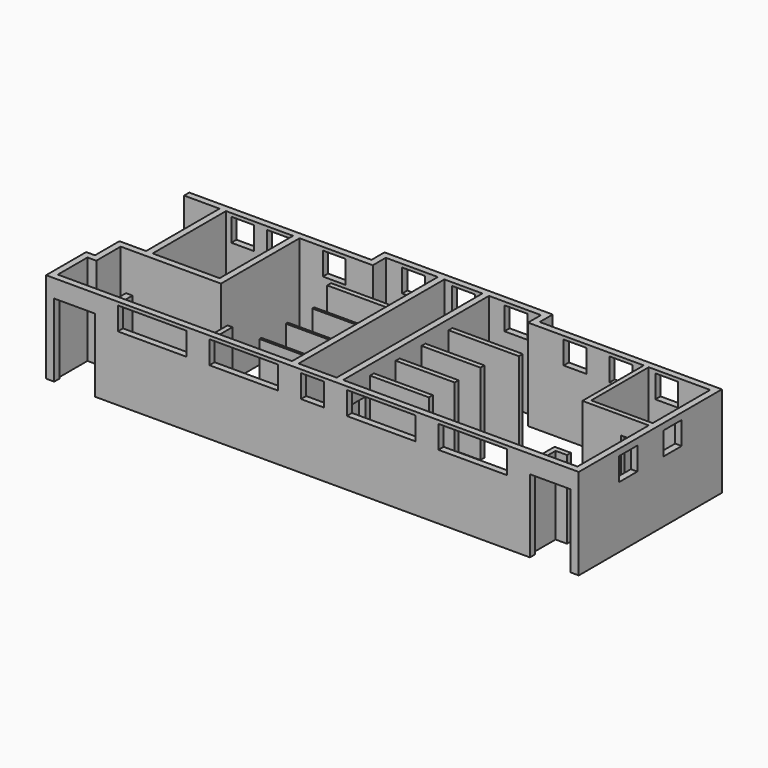
from build123d import *

# Parameters (mm, degrees)
F1_DEPTH  = 2800
F2_W      = 1250
F2_H      = 2250
F3_DEPTH  = 200
F4_W      = 1250
F4_H      = 2250
F5_DEPTH  = 200
F7_DEPTH  = 2800
F8_W      = 200
F8_H      = 5600
F10_DEPTH = 2800
F9_W      = 200
F9_H      = 5600
F11_DEPTH = 2800
F14_DEPTH = 2500
F16_DEPTH = 2800
F17_W     = 2111
F17_H     = 704
F17_W_2   = 704
F18_DEPTH = 200
F19_DEPTH = 2500
F20_W     = 704
F20_H     = 704
F21_DEPTH = 200
F22_W     = 704
F22_H     = 704
F23_DEPTH = 200
F24_W     = 704
F24_H     = 704
F25_DEPTH = 200
F28_W     = 760
F28_H     = 2250
F29_DEPTH = 150
F30_W     = 705
F30_H     = 705
F31_DEPTH = 200
F32_W     = 1810
F32_H     = 150
F33_DEPTH = 2500
F35_DEPTH = 200
F36_W     = 200
F36_H     = 870
F37_DEPTH = 2400
F38_W     = 150
F38_H     = 1085
F39_DEPTH = 2400
F40_W     = 1810
F40_H     = 75
F41_DEPTH = 2400
F42_W     = 1810
F42_H     = 75
F43_DEPTH = 2400
F45_DEPTH = 2400
F46_W     = 1090
F46_H     = 200
F47_DEPTH = 2800


with BuildPart() as f1:
    # F0 (on Top) → F1 (new body)
    with BuildSketch(Plane.XY):
        Polygon((0, 200), (0, 0), (16370, 0), (16370, 5500), (10770, 5500), (10770, 6000), (5600, 6000), (5600, 5500), (1090, 5500), (1090, 5300), (1090, 2480), (270, 2480), (270, 1540), (0, 1540), align=None)
        Polygon((1290, 5300), (5800, 5300), (5800, 5800), (10570, 5800), (10570, 5300), (16170, 5300), (16170, 200), (200, 200), (200, 1340), (470, 1340), (470, 2280), (936.407268, 2280), (1290, 2280), align=None, mode=Mode.SUBTRACT)
    extrude(amount=F1_DEPTH)

    # F2 (on face) → F3 (cut)
    with BuildSketch(Plane.XZ):
        with Locations((875, 1125)):
            Rectangle(F2_W, F2_H)
    extrude(amount=-F3_DEPTH, mode=Mode.SUBTRACT)

    # F4 (on face) → F5 (cut)
    with BuildSketch(Plane.XZ):
        with Locations((15495, 1125)):
            Rectangle(F4_W, F4_H)
    extrude(amount=-F5_DEPTH, mode=Mode.SUBTRACT)

    # F6 (on Top) → F7 (join)
    with BuildSketch(Plane.XY):
        Polygon((1290, 2480), (1290, 2280), (3550, 2280), (3550, 5300), (3350, 5300), (3350, 2480), align=None)
    extrude(amount=F7_DEPTH)

    # F8 (on Top) → F10 (join)
    with BuildSketch(Plane.XY):
        with Locations((7500, 3000)):
            Rectangle(F8_W, F8_H)
    extrude(amount=F10_DEPTH)

    # F9 (on Top) → F11 (join)
    with BuildSketch(Plane.XY):
        with Locations((8870, 3000)):
            Rectangle(F9_W, F9_H)
    extrude(amount=F11_DEPTH)

    # F13 (on Top) → F14 (join)
    with BuildSketch(Plane.XY):
        Polygon((7600, 5800), (7400, 5800), (7400, 4400), (5240, 4400), (5240, 4250), (7600, 4250), align=None)
    extrude(amount=F14_DEPTH)

    # F15 (on Top) → F16 (join)
    with BuildSketch(Plane.XY):
        Polygon((14280, 5300), (14130, 5300), (14130, 2940), (16170, 2940), (16170, 3090), (14280, 3090), align=None)
    extrude(amount=F16_DEPTH)

    # F17 (on face) → F18 (cut)
    with BuildSketch(Plane.XZ):
        with Locations((3259.5, 2348)):
            Rectangle(F17_W, F17_H)
        with Locations((6073.5, 2348)):
            Rectangle(F17_W, F17_H)
        with Locations((8185, 2348)):
            Rectangle(F17_W_2, F17_H)
        with Locations((10296.5, 2348)):
            Rectangle(F17_W, F17_H)
        with Locations((13111.5, 2348)):
            Rectangle(F17_W, F17_H)
    extrude(amount=-F18_DEPTH, mode=Mode.SUBTRACT)

    # F12 (on Top) → F19 (join)
    with BuildSketch(Plane.XY):
        Polygon((8969.008636, 4400), (8969.008636, 5800), (8769.008636, 5800), (8769.008636, 4250), (11129.008636, 4250), (11129.008636, 4400), align=None)
    extrude(amount=F19_DEPTH)

    # F20 (on face) → F21 (cut)
    with BuildSketch(Plane(origin=(0, 5500, 0), x_dir=(-1, 0, 0), z_dir=(0, 1, 0))):
        with Locations((-14835, 2348)):
            Rectangle(F20_W, F20_H)
        with Locations((-13427, 2348)):
            Rectangle(F20_W, F20_H)
        with Locations((-12019, 2348)):
            Rectangle(F20_W, F20_H)
    extrude(amount=-F21_DEPTH, mode=Mode.SUBTRACT)

    # F22 (on face) → F23 (cut)
    with BuildSketch(Plane(origin=(0, 6000, 0), x_dir=(-1, 0, 0), z_dir=(0, 1, 0))):
        with Locations((-9798, 2348)):
            Rectangle(F22_W, F22_H)
        with Locations((-8184, 2348)):
            Rectangle(F22_W, F22_H)
        with Locations((-6653, 2348)):
            Rectangle(F22_W, F22_H)
    extrude(amount=-F23_DEPTH, mode=Mode.SUBTRACT)

    # F24 (on face) → F25 (cut)
    with BuildSketch(Plane(origin=(0, 5500, 0), x_dir=(-1, 0, 0), z_dir=(0, 1, 0))):
        with Locations((-4617, 2348)):
            Rectangle(F24_W, F24_H)
        with Locations((-2896, 2348)):
            Rectangle(F24_W, F24_H)
        with Locations((-1804, 2348)):
            Rectangle(F24_W, F24_H)
    extrude(amount=-F25_DEPTH, mode=Mode.SUBTRACT)

    # F28 (on face) → F29 (cut)
    with BuildSketch(Plane.XZ.offset(-2940)):
        with Locations((15690, 1125)):
            Rectangle(F28_W, F28_H)
    extrude(amount=-F29_DEPTH, mode=Mode.SUBTRACT)

    # F30 (on face) → F31 (cut)
    with BuildSketch(Plane.YZ.offset(16370)):
        with Locations((1897.5, 2247.5)):
            Rectangle(F30_W, F30_H)
        with Locations((3602.5, 2247.5)):
            Rectangle(F30_W, F30_H)
    extrude(amount=-F31_DEPTH, mode=Mode.SUBTRACT)

    # F32 (on Top) → F33 (join)
    with BuildSketch(Plane.XY):
        Polygon((8970, 3360), (8970, 5800), (8969.008636, 5800), (8770, 5800), (8770, 1230), (8970, 1230), (8970, 1380), (8970, 2220), (8970, 2370), (8970, 3210), align=None)
        with Locations((9875, 3285)):
            Rectangle(F32_W, F32_H)
        with Locations((9875, 2295)):
            Rectangle(F32_W, F32_H)
        with Locations((9875, 1305)):
            Rectangle(F32_W, F32_H)
    extrude(amount=F33_DEPTH)

    # F34 (on face) → F35 (cut)
    with BuildSketch(Plane.YZ.offset(8970)):
        Polygon((300, 2000), (300, 0), (962, 0), (1062, 0), (1062, 2000), align=None)
    extrude(amount=-F35_DEPTH, mode=Mode.SUBTRACT)

    # F36 (on Top) → F37 (join)
    with BuildSketch(Plane.XY):
        with Locations((1700, 635)):
            Rectangle(F36_W, F36_H)
    extrude(amount=F37_DEPTH)

    # F38 (on Top) → F39 (join)
    with BuildSketch(Plane.XY):
        with Locations((4625, 742.5)):
            Rectangle(F38_W, F38_H)
    extrude(amount=F39_DEPTH)

    # F40 (on Top) → F41 (join)
    with BuildSketch(Plane.XY):
        with Locations((6495, 1247.5)):
            Rectangle(F40_W, F40_H)
    extrude(amount=F41_DEPTH)

    # F42 (on Top) → F43 (join)
    with BuildSketch(Plane.XY):
        with Locations((6495, 2262.5)):
            Rectangle(F42_W, F42_H)
        with Locations((6495, 3277.5)):
            Rectangle(F42_W, F42_H)
    extrude(amount=F43_DEPTH)

    # F44 (on Top) → F45 (join)
    with BuildSketch(Plane.XY):
        Polygon((14620, 200), (14770, 200), (14770, 1110), (15120, 1110), (15120, 1260), (14620, 1260), align=None)
    extrude(amount=F45_DEPTH)

    # F46 (on Top) → F47 (join)
    with BuildSketch(Plane.XY):
        with Locations((545, 5400)):
            Rectangle(F46_W, F46_H)
    extrude(amount=F47_DEPTH)


solid = f1.part
